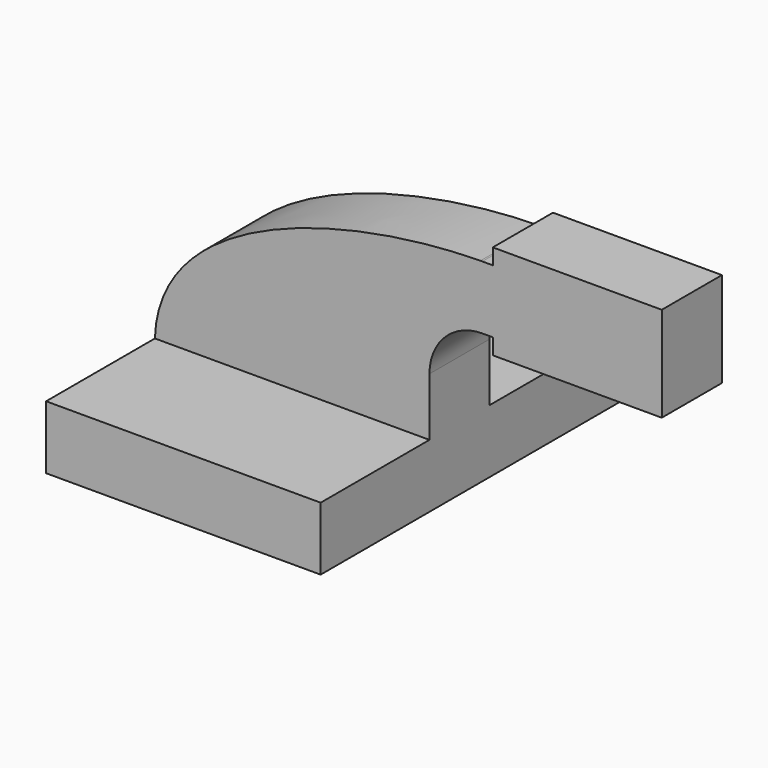
from build123d import *

# Parameters (mm, degrees)
F1_DEPTH = 63.5
F0_W     = 25.4
F0_H     = 4.7752
F0_H_2   = 19.05
F0_H_3   = 4.7498
F2_DEPTH = 22.606


with BuildPart() as f1:
    # F0 (on Front) → F1 (new body, symmetric)
    with BuildSketch(Plane.XZ):
        Polygon((-41.275, -9.525), (41.275, -9.525), (41.275, 9.525), (22.225, 9.525), (-41.275, 9.525), align=None)
    extrude(amount=F1_DEPTH, both=True)

    # F0 (on Front) → F2 (join)
    with BuildSketch(Plane.XZ):
        Polygon((-41.275, -9.525), (41.275, -9.525), (41.275, 9.525), (22.225, 9.525), (-41.275, 9.525), align=None)
        with BuildLine():
            Line((22.225, 9.525), (41.275, 9.525))
            Line((41.275, 9.525), (41.275, 27.0002))
            ThreePointArc((41.275, 27.0002), (45.9246798487, 38.2255201513), (57.15, 42.8752))
            Line((57.15, 42.8752), (60.325, 42.8752))
            Line((60.325, 42.8752), (60.325, 61.9252))
            Line((60.325, 61.9252), (57.15, 61.9252))
            add(Edge.make_bspline(
                [(56.6150518391, 61.9211028444), (56.7937815954, 61.9227744977), (56.9721001461, 61.924139948), (57.15, 61.9252)],
                knots=[110.9922728255, 110.9922728255, 110.9922728255, 110.9922728255, 111.5045361635, 111.5045361635, 111.5045361635, 111.5045361635], degree=3))
            ThreePointArc((56.6150518391, 61.9211028444), (32.2658816761, 51.5060417574), (22.225, 27.0002))
            Line((22.225, 27.0002), (22.225, 9.525))
        make_face()
        with BuildLine():
            add(Edge.make_bspline(
                [(-41.275, 9.525), (-40.1402965099, 46.8216899359), (17.8896143528, 61.5589051427), (56.6150518391, 61.9211028444)],
                knots=[0, 0, 0, 0, 110.9922728255, 110.9922728255, 110.9922728255, 110.9922728255], degree=3))
            Line((-41.275, 9.525), (22.225, 9.525))
            Line((22.225, 9.525), (22.225, 27.0002))
            ThreePointArc((22.225, 27.0002), (32.2658816761, 51.5060417574), (56.6150518391, 61.9211028444))
        make_face()
        with BuildLine():
            ThreePointArc((57.15, 61.9252), (56.8825180747, 61.9241756961), (56.6150518391, 61.9211028444))
            add(Edge.make_bspline(
                [(56.6150518391, 61.9211028444), (56.7937815954, 61.9227744977), (56.9721001461, 61.924139948), (57.15, 61.9252)],
                knots=[110.9922728255, 110.9922728255, 110.9922728255, 110.9922728255, 111.5045361635, 111.5045361635, 111.5045361635, 111.5045361635], degree=3))
        make_face()
        with Locations((73.025, 40.4876)):
            Rectangle(F0_W, F0_H)
        with Locations((73.025, 52.4002)):
            Rectangle(F0_W, F0_H_2)
        with Locations((73.025, 64.3001)):
            Rectangle(F0_W, F0_H_3)
        Polygon((85.725, 61.9252), (85.725, 42.8752), (85.725, 38.1), (111.125, 38.1), (111.125, 66.675), (85.725, 66.675), align=None)
    extrude(amount=F2_DEPTH)


solid = f1.part
